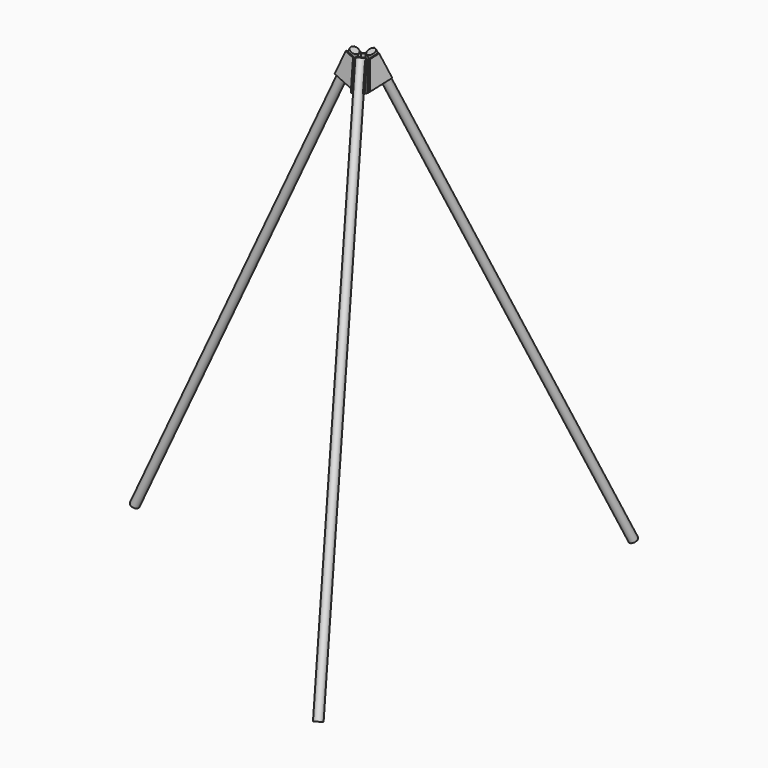
from build123d import *

# Parameters (mm, degrees)
F5_R      = 16
F6_DEPTH  = 2000
F7_COUNT  = 3
F15_DEPTH = 5
F17_COUNT = 3
F20_DEPTH = 110.3377918962
F21_COUNT = 3


with BuildPart() as f6:
    # F5 (on face) → F6 (new body)
    with BuildSketch(Plane(origin=(0, 0, 0), x_dir=(0.906307787, 0, -0.4226182617), z_dir=(-0.4226182617, 0, -0.906307787))):
        with Locations((-32, 0)):
            Circle(F5_R)
    extrude(amount=F6_DEPTH)


with BuildPart() as f7_1:
    # F7: instance of F6
    add(f6.part.rotate(Axis((0, 0, 59.7195103765), (0, 0, 1)), 1 * 360 / F7_COUNT))


with BuildPart() as f7_2:
    # F7: instance of F6
    add(f6.part.rotate(Axis((0, 0, 59.7195103765), (0, 0, 1)), 2 * 360 / F7_COUNT))


with BuildPart() as f15:
    # F14 (on offset) → F15 (new body)
    with BuildSketch(Plane(origin=(-13.8564064606, 8, 0), x_dir=(-0.5, -0.8660254038, 0), z_dir=(-0.8660254038, 0.5, 0))):
        Polygon((-59.9158728775, -90.6307787037), (-17.6540467034, 0), (-46.6558958886, 13.5237843757), (-88.9177220626, -77.106994328), align=None)
        Polygon((-17.6540467034, -110.3377918962), (-17.6540467034, 0), (-59.9158728775, -90.6307787037), align=None)
    extrude(amount=F15_DEPTH)


with BuildPart() as f16_1:
    # F16: instance of F15
    add(f15.part.mirror(Plane(origin=(437.1191863333, 757.1126396924, -1799.0917896976), x_dir=(-0.2113091309, -0.3659981508, 0.906307787), z_dir=(-0.8660254038, 0.5, 0))))


with BuildPart() as f17_1:
    # F17: instance of F16_1
    add(f16_1.part.rotate(Axis((0, 0, 59.7195103765), (0, 0, 1)), 1 * 360 / F17_COUNT))


with BuildPart() as f17_2:
    # F17: instance of F16_1
    add(f16_1.part.rotate(Axis((0, 0, 59.7195103765), (0, 0, 1)), 2 * 360 / F17_COUNT))


with BuildPart() as f17_3:
    # F17: instance of F15
    add(f15.part.rotate(Axis((0, 0, 59.7195103765), (0, 0, 1)), 1 * 360 / F17_COUNT))


with BuildPart() as f17_4:
    # F17: instance of F15
    add(f15.part.rotate(Axis((0, 0, 59.7195103765), (0, 0, 1)), 2 * 360 / F17_COUNT))


with BuildPart() as f20:
    # F19 (on 3pt) → F20 (new body, through all)
    with BuildSketch(Plane(origin=(0, 0, 0), x_dir=(1, 0, 0), z_dir=(0, 0, -1))):
        Polygon((-17.6540467034, -21), (-9.3595101278, -25.7888529247), (-5.0293831089, -23.2888529247), (-17.6540467034, -16), align=None)
    extrude(amount=F20_DEPTH)


with BuildPart() as f21_1:
    # F21: instance of F20
    add(f20.part.rotate(Axis((0, 0, 59.7195103765), (0, 0, 1)), 1 * 360 / F21_COUNT))


with BuildPart() as f21_2:
    # F21: instance of F20
    add(f20.part.rotate(Axis((0, 0, 59.7195103765), (0, 0, 1)), 2 * 360 / F21_COUNT))


solid = Compound([f6.part, f7_1.part, f7_2.part, f15.part, f16_1.part, f17_1.part, f17_2.part, f17_3.part, f17_4.part, f20.part, f21_1.part, f21_2.part])
